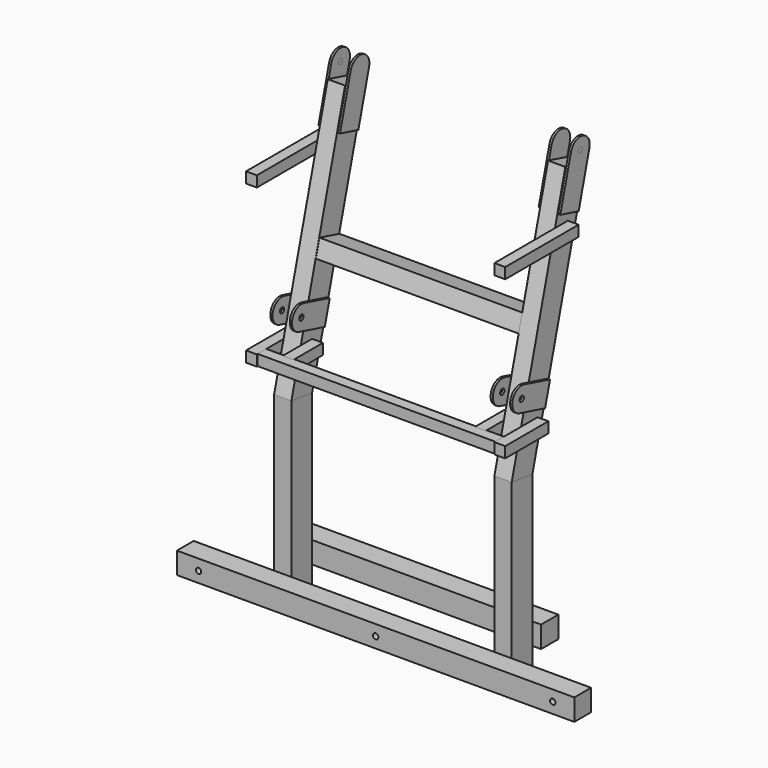
from build123d import *

# Parameters (mm, degrees)
F0_W           = 1840
F0_H           = 100
F3_DEPTH       = 97
F4_START       = -5
F4_DEPTH       = 50
F5_R           = 12.5
F6_DEPTH       = 25.4
F7_W           = 50
F7_H           = 50
F8_DEPTH       = 250
F10_START      = -50
F9_W           = 50
F9_H           = 50
F10_DEPTH      = 170
F2_W           = 50
F2_H           = 50
F11_DEPTH      = 425
F13_START      = 470
F13_DEPTH      = 80
F15_START      = -470
F15_DEPTH      = 80
F17_START      = 470
F17_DEPTH      = 80
F18_START      = -470
F18_DEPTH      = 80
F20_START      = 550
F19_R          = 12.5
F20_DEPTH      = 10
F21_START      = 460
F21_DEPTH      = 10
F22_START      = -550
F22_DEPTH      = 10
F23_START      = -460
F23_DEPTH      = 10
F25_W          = 100
F25_H          = 100
F26_DEPTH      = 590
F26_DEPTH_BACK = 590
F27_START      = 550
F24_R          = 12.5
F27_DEPTH      = 10
F28_START      = 460
F28_DEPTH      = 10
F29_START      = -550
F29_DEPTH      = 10
F30_START      = -460
F30_DEPTH      = 10
F32_DEPTH      = 470
F32_DEPTH_BACK = 470


with BuildPart() as f3:
    # F0 (on Front) → F3 (new body)
    with BuildSketch(Plane.XZ):
        Rectangle(F0_W, F0_H)
    extrude(amount=-F3_DEPTH)

    # F5 (on Front) → F6 (cut)
    with BuildSketch(Plane.XZ):
        with Locations((-820, 0)):
            Circle(F5_R)
        with BuildLine():
            ThreePointArc((12.5, 0), (0, 12.5), (-12.5, 0))
            ThreePointArc((-12.5, 0), (0, -12.5), (12.5, 0))
        make_face()
        with Locations((820, 0)):
            Circle(F5_R)
    extrude(amount=-F6_DEPTH, mode=Mode.SUBTRACT)


with BuildPart() as f4:
    # F1 (on Front) → F4 (new body)
    with BuildSketch(Plane.XZ.offset(F4_START)):
        Polygon((550, 970), (-550, 970), (-550, 920), (0, 920), (550, 920), align=None)
    extrude(amount=-F4_DEPTH)


with BuildPart() as f8:
    # F7 (on Front) → F8 (new body)
    with BuildSketch(Plane.XZ):
        with Locations((-575, 945)):
            Rectangle(F7_W, F7_H)
    extrude(amount=-F8_DEPTH)


with BuildPart() as f8b:
    # F7 (on Front) → F8, piece 2 (new body)
    with BuildSketch(Plane.XZ):
        with Locations((575, 945)):
            Rectangle(F7_W, F7_H)
    extrude(amount=-F8_DEPTH)


with BuildPart() as f10:
    # F9 (on Front) → F10 (new body)
    with BuildSketch(Plane.XZ.offset(F10_START)):
        with Locations((-445, 945)):
            Rectangle(F9_W, F9_H)
    extrude(amount=-F10_DEPTH)


with BuildPart() as f10b:
    # F9 (on Front) → F10, piece 2 (new body)
    with BuildSketch(Plane.XZ.offset(F10_START)):
        with Locations((445, 945)):
            Rectangle(F9_W, F9_H)
    extrude(amount=-F10_DEPTH)


with BuildPart() as f11:
    # F2 (on Front) → F11 (new body)
    with BuildSketch(Plane.XZ):
        with Locations((-575, 1675)):
            Rectangle(F2_W, F2_H)
    extrude(amount=-F11_DEPTH)


with BuildPart() as f11b:
    # F2 (on Front) → F11, piece 2 (new body)
    with BuildSketch(Plane.XZ):
        with Locations((575, 1675)):
            Rectangle(F2_W, F2_H)
    extrude(amount=-F11_DEPTH)


with BuildPart() as f13:
    # F12 (on Right) → F13 (new body)
    with BuildSketch(Plane.YZ.offset(F13_START)):
        Polygon((100, 750), (100, 0), (100, -50), (220, -50), (220, 0), (220, 750), (100, 765.7982997105), align=None)
    extrude(amount=F13_DEPTH)


with BuildPart() as f15:
    # F14 (on Right) → F15 (new body)
    with BuildSketch(Plane.YZ.offset(F15_START)):
        Polygon((220, -50), (220, 0), (220, 750), (100, 765.7982997105), (100, 750), (100, 0), (100, -50), align=None)
    extrude(amount=-F15_DEPTH)


with BuildPart() as f17:
    # F16 (on Right) → F17 (new body)
    with BuildSketch(Plane.YZ.offset(F17_START)):
        Polygon((100, 765.7982997105), (220, 750), (526.4939532777, 1893.8510058451), (410.582854123, 1924.9092912574), align=None)
    extrude(amount=F17_DEPTH)

    # F19 (on Right) → F20 (join)
    with BuildSketch(Plane.YZ.offset(F20_START)):
        Polygon((475.0847018168, 1721.2763607837), (521.6721299352, 1895.1430095157), (415.4202890434, 1923.613104477), (395.6957171464, 1850), (368.832860925, 1749.746455745), align=None)
        with BuildLine():
            Line((415.4202890434, 1923.613104477), (521.6721299352, 1895.1430095157))
            Line((521.6721299352, 1895.1430095157), (537.2012726414, 1953.0985590931))
            ThreePointArc((537.2012726414, 1953.0985590931), (498.3103996761, 2020.4595270196), (430.9494317496, 1981.5686540544))
            Line((430.9494317496, 1981.5686540544), (415.4202890434, 1923.613104477))
        make_face()
        with Locations((484.0675464065, 1967.3356981286)):
            Circle(F19_R, mode=Mode.SUBTRACT)
    extrude(amount=F20_DEPTH)

    # F19 (on Right) → F21 (join)
    with BuildSketch(Plane.YZ.offset(F21_START)):
        Polygon((475.0847018168, 1721.2763607837), (521.6721299352, 1895.1430095157), (415.4202890434, 1923.613104477), (395.6957171464, 1850), (368.832860925, 1749.746455745), align=None)
        with BuildLine():
            Line((415.4202890434, 1923.613104477), (521.6721299352, 1895.1430095157))
            Line((521.6721299352, 1895.1430095157), (537.2012726414, 1953.0985590931))
            ThreePointArc((537.2012726414, 1953.0985590931), (498.3103996761, 2020.4595270196), (430.9494317496, 1981.5686540544))
            Line((430.9494317496, 1981.5686540544), (415.4202890434, 1923.613104477))
        make_face()
        with Locations((484.0675464065, 1967.3356981286)):
            Circle(F19_R, mode=Mode.SUBTRACT)
    extrude(amount=F21_DEPTH)

    # F24 (on Right) → F28 (join)
    with BuildSketch(Plane.YZ.offset(F28_START)):
        with Locations((484.0675464065, 1967.3356981286)):
            Circle(F24_R)
        with BuildLine():
            Line((131.330628284, 1037.2739285056), (169.9676613355, 1026.9211667015))
            Line((169.9676613355, 1026.9211667015), (198.4377562968, 1133.1730075933))
            Line((198.4377562968, 1133.1730075933), (159.8007232453, 1143.5257693974))
            ThreePointArc((159.8007232453, 1143.5257693974), (92.4397553187, 1104.6348964321), (131.330628284, 1037.2739285056))
        make_face()
        with Locations((145.5656757646, 1090.3998489515)):
            Circle(F24_R, mode=Mode.SUBTRACT)
        Polygon((198.4377562968, 1133.1730075933), (169.9676613355, 1026.9211667015), (281.0491313588, 997.1569765147), (309.5192263201, 1103.4088174065), align=None)
    extrude(amount=F28_DEPTH)


with BuildPart() as f18:
    # F16 (on Right) → F18 (new body)
    with BuildSketch(Plane.YZ.offset(F18_START)):
        Polygon((100, 765.7982997105), (220, 750), (526.4939532777, 1893.8510058451), (410.582854123, 1924.9092912574), align=None)
    extrude(amount=-F18_DEPTH)

    # F19 (on Right) → F22 (join)
    with BuildSketch(Plane.YZ.offset(F22_START)):
        Polygon((475.0847018168, 1721.2763607837), (521.6721299352, 1895.1430095157), (415.4202890434, 1923.613104477), (395.6957171464, 1850), (368.832860925, 1749.746455745), align=None)
        with BuildLine():
            Line((415.4202890434, 1923.613104477), (521.6721299352, 1895.1430095157))
            Line((521.6721299352, 1895.1430095157), (537.2012726414, 1953.0985590931))
            ThreePointArc((537.2012726414, 1953.0985590931), (498.3103996761, 2020.4595270196), (430.9494317496, 1981.5686540544))
            Line((430.9494317496, 1981.5686540544), (415.4202890434, 1923.613104477))
        make_face()
        with Locations((484.0675464065, 1967.3356981286)):
            Circle(F19_R, mode=Mode.SUBTRACT)
    extrude(amount=-F22_DEPTH)

    # F19 (on Right) → F23 (join)
    with BuildSketch(Plane.YZ.offset(F23_START)):
        Polygon((475.0847018168, 1721.2763607837), (521.6721299352, 1895.1430095157), (415.4202890434, 1923.613104477), (395.6957171464, 1850), (368.832860925, 1749.746455745), align=None)
        with BuildLine():
            Line((415.4202890434, 1923.613104477), (521.6721299352, 1895.1430095157))
            Line((521.6721299352, 1895.1430095157), (537.2012726414, 1953.0985590931))
            ThreePointArc((537.2012726414, 1953.0985590931), (498.3103996761, 2020.4595270196), (430.9494317496, 1981.5686540544))
            Line((430.9494317496, 1981.5686540544), (415.4202890434, 1923.613104477))
        make_face()
        with Locations((484.0675464065, 1967.3356981286)):
            Circle(F19_R, mode=Mode.SUBTRACT)
    extrude(amount=-F23_DEPTH)

    # F24 (on Right) → F30 (join)
    with BuildSketch(Plane.YZ.offset(F30_START)):
        with Locations((484.0675464065, 1967.3356981286)):
            Circle(F24_R)
        with BuildLine():
            Line((131.330628284, 1037.2739285056), (169.9676613355, 1026.9211667015))
            Line((169.9676613355, 1026.9211667015), (198.4377562968, 1133.1730075933))
            Line((198.4377562968, 1133.1730075933), (159.8007232453, 1143.5257693974))
            ThreePointArc((159.8007232453, 1143.5257693974), (92.4397553187, 1104.6348964321), (131.330628284, 1037.2739285056))
        make_face()
        with Locations((145.5656757646, 1090.3998489515)):
            Circle(F24_R, mode=Mode.SUBTRACT)
        Polygon((198.4377562968, 1133.1730075933), (169.9676613355, 1026.9211667015), (281.0491313588, 997.1569765147), (309.5192263201, 1103.4088174065), align=None)
    extrude(amount=-F30_DEPTH)


with BuildPart() as f26:
    # F25 (on Right) → F26 (new body, two sides)
    with BuildSketch(Plane.YZ) as f26_sk:
        with Locations((270, 100)):
            Rectangle(F25_W, F25_H)
    extrude(amount=F26_DEPTH)
    extrude(f26_sk.sketch, amount=-F26_DEPTH_BACK)


with BuildPart() as f27:
    # F24 (on Right) → F27 (new body)
    with BuildSketch(Plane.YZ.offset(F27_START)):
        with Locations((484.0675464065, 1967.3356981286)):
            Circle(F24_R)
    extrude(amount=F27_DEPTH)


with BuildPart() as f27b:
    # F24 (on Right) → F27, piece 2 (new body)
    with BuildSketch(Plane.YZ.offset(F27_START)):
        with BuildLine():
            Line((131.330628284, 1037.2739285056), (169.9676613355, 1026.9211667015))
            Line((169.9676613355, 1026.9211667015), (198.4377562968, 1133.1730075933))
            Line((198.4377562968, 1133.1730075933), (159.8007232453, 1143.5257693974))
            ThreePointArc((159.8007232453, 1143.5257693974), (92.4397553187, 1104.6348964321), (131.330628284, 1037.2739285056))
        make_face()
        with Locations((145.5656757646, 1090.3998489515)):
            Circle(F24_R, mode=Mode.SUBTRACT)
        Polygon((198.4377562968, 1133.1730075933), (169.9676613355, 1026.9211667015), (281.0491313588, 997.1569765147), (309.5192263201, 1103.4088174065), align=None)
    extrude(amount=F27_DEPTH)


with BuildPart() as f29:
    # F24 (on Right) → F29 (new body)
    with BuildSketch(Plane.YZ.offset(F29_START)):
        with Locations((484.0675464065, 1967.3356981286)):
            Circle(F24_R)
    extrude(amount=-F29_DEPTH)


with BuildPart() as f29b:
    # F24 (on Right) → F29, piece 2 (new body)
    with BuildSketch(Plane.YZ.offset(F29_START)):
        with BuildLine():
            Line((131.330628284, 1037.2739285056), (169.9676613355, 1026.9211667015))
            Line((169.9676613355, 1026.9211667015), (198.4377562968, 1133.1730075933))
            Line((198.4377562968, 1133.1730075933), (159.8007232453, 1143.5257693974))
            ThreePointArc((159.8007232453, 1143.5257693974), (92.4397553187, 1104.6348964321), (131.330628284, 1037.2739285056))
        make_face()
        with Locations((145.5656757646, 1090.3998489515)):
            Circle(F24_R, mode=Mode.SUBTRACT)
        Polygon((198.4377562968, 1133.1730075933), (169.9676613355, 1026.9211667015), (281.0491313588, 997.1569765147), (309.5192263201, 1103.4088174065), align=None)
    extrude(amount=-F29_DEPTH)


with BuildPart() as f32:
    # F31 (on Right) → F32 (new body, two sides)
    with BuildSketch(Plane.YZ) as f32_sk:
        Polygon((357.2753242756, 1256.7351234571), (367.7343966013, 1295.3435138157), (378.1934689271, 1333.9519041743), (262.3682978512, 1365.3291211516), (241.4501531997, 1288.1123404343), align=None)
    extrude(amount=F32_DEPTH)
    extrude(f32_sk.sketch, amount=-F32_DEPTH_BACK)


solid = Compound([f3.part, f4.part, f8.part, f8b.part, f10.part, f10b.part, f11.part, f11b.part, f13.part, f15.part, f17.part, f18.part, f26.part, f27.part, f27b.part, f29.part, f29b.part, f32.part])
